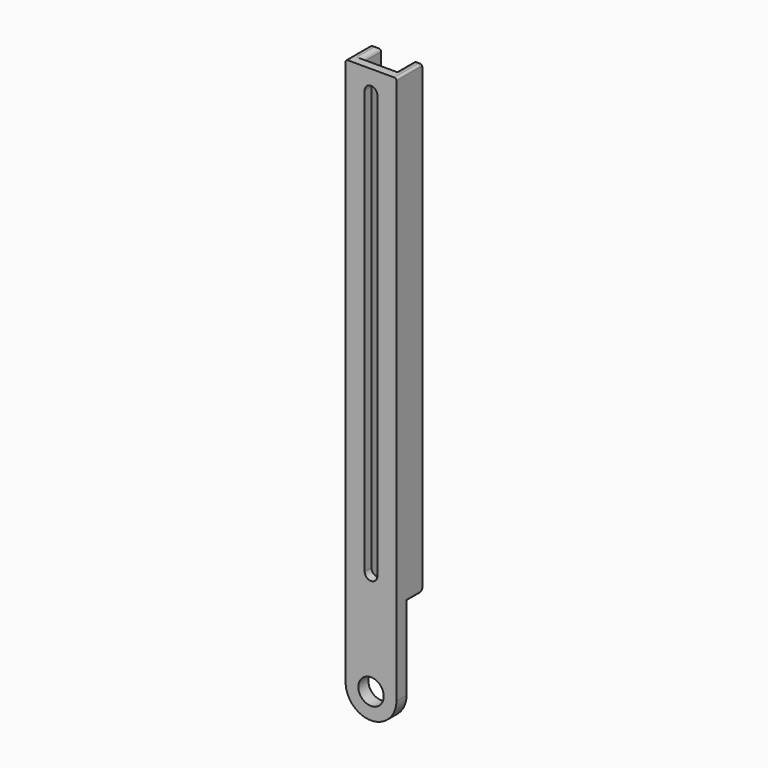
from build123d import *

# Parameters (mm, degrees)
EXTRUDE_DEPTH = 110
POCKET_DEPTH  = 5
FILLET_R      = 1
FILLET001_R   = 0.5
SKETCH002_R   = 3
PAD_DEPTH     = 3


with BuildPart() as part:
    # Sketch → Extrude (new body)
    with BuildSketch(Plane.XY):
        Polygon((0, 0), (12, 0), (12, 8), (10, 8), (10, 2), (2, 2), (2, 8), (0, 8), align=None)
    extrude(amount=EXTRUDE_DEPTH)

    # Sketch001 (on Face5 of BaseFeature) → Pocket (cut)
    with BuildSketch(Plane(origin=(0, 2, 0), x_dir=(-1, 0, 0), z_dir=(0, 1, 0))):
        with BuildLine():
            ThreePointArc((-4.5, 105), (-6, 106.5), (-7.5, 105))
            Line((-7.5, 105), (-7.5, 5))
            ThreePointArc((-7.5, 5), (-6, 3.5), (-4.5, 5))
            Line((-4.5, 105), (-4.5, 5))
        make_face()
    extrude(amount=-POCKET_DEPTH, mode=Mode.SUBTRACT)

    # Fillet
    fillet_edges = [part.edges().sort_by_distance(p)[0] for p in [
        (11, 8, 0),
        (10, 5, 0),
        (2, 5, 0),
        (1, 8, 0),
        (11, 8, 110),
        (10, 5, 110),
        (2, 5, 110),
        (1, 8, 110),
    ]]
    fillet(fillet_edges, radius=FILLET_R)

    # Fillet001
    fillet001_edges = [part.edges().sort_by_distance(p)[0] for p in [
        (0, 3.5, 0),
        (12, 3.5, 0),
    ]]
    fillet(fillet001_edges, radius=FILLET001_R)

    # Sketch002 (on Face2 of Fillet001) → Pad (join)
    with BuildSketch(Plane.XZ):
        with BuildLine():
            Line((0, 0.5), (0, -19.5))
            ThreePointArc((0, -19.5), (6, -25.5), (12, -19.5))
            Line((12, -19.5), (12, 0.5))
            Line((12, 0.5), (0, 0.5))
        make_face()
        with Locations((6, -19.5)):
            Circle(SKETCH002_R, mode=Mode.SUBTRACT)
    extrude(amount=-PAD_DEPTH)


solid = part.part
